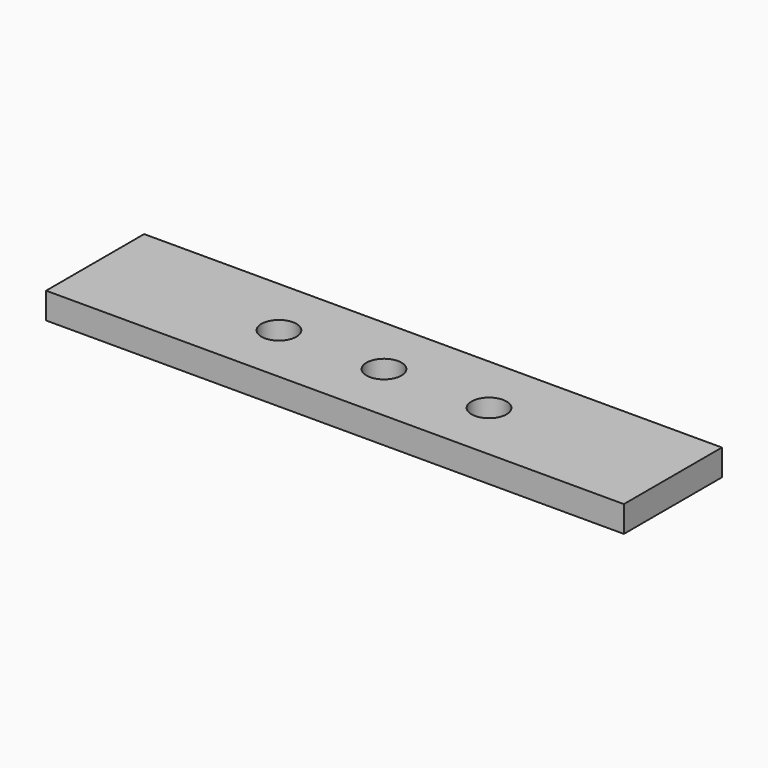
from build123d import *

# Parameters (mm, degrees)
F0_W     = 419.1
F0_H     = 88.9
F0_R     = 12.7
F1_DEPTH = 19.05


with BuildPart() as f1:
    # F0 (on Top) → F1 (new body)
    with BuildSketch(Plane.XY):
        with Locations((-2993.335288, -814.11605)):
            Rectangle(F0_W, F0_H)
        with Locations((-3069.535288, -814.11605)):
            Circle(F0_R, mode=Mode.SUBTRACT)
        with Locations((-2993.335288, -814.11605)):
            Circle(F0_R, mode=Mode.SUBTRACT)
        with Locations((-2917.135288, -814.11605)):
            Circle(F0_R, mode=Mode.SUBTRACT)
    extrude(amount=F1_DEPTH)


solid = f1.part
